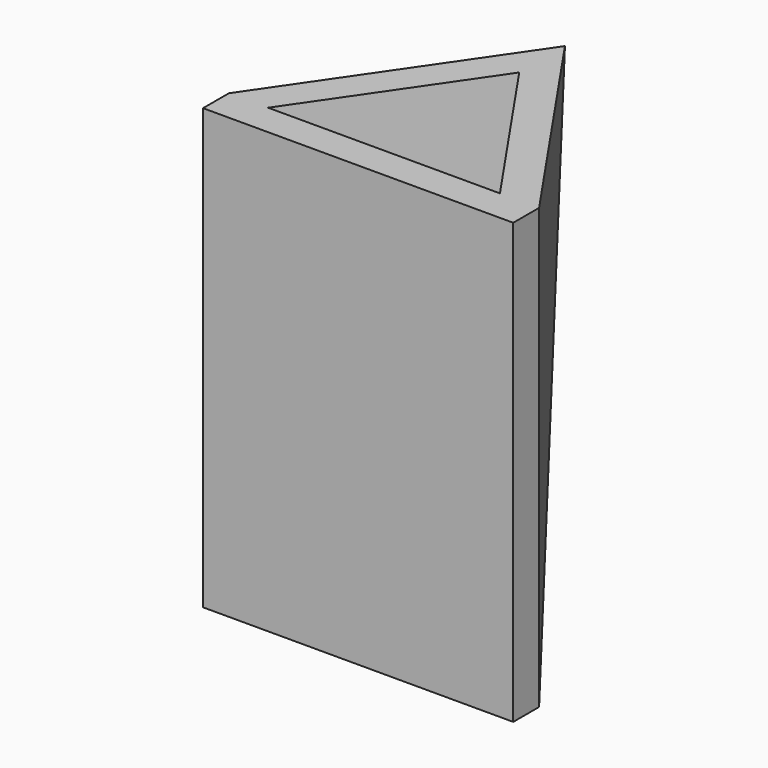
from build123d import *

# Parameters (mm, degrees)
F0_W      = 60.96
F0_H      = 86.36
F1_DEPTH  = 6.35
F1_FACE_W = 60.96
F1_FACE_H = 86.36
F6_DEPTH  = 86.361


with BuildPart() as f1:
    # F0 (on Front) → F1 (new body)
    with BuildSketch(Plane.XZ):
        Rectangle(F0_W, F0_H)
    extrude(amount=-F1_DEPTH)

    # F1_face (on face) → F4 section 0
    with BuildSketch(Plane(origin=(0, 6.35, 0), x_dir=(1, 0, 0), z_dir=(0, 1, 0)), mode=Mode.PRIVATE) as f4_s0:
        Rectangle(F1_FACE_W, F1_FACE_H)
    loft([f4_s0.sketch, Vertex(0, 50.8, 43.18)])

    # F5 (on face) → F6 (cut, through all)
    with BuildSketch(Plane.XY.offset(43.18)):
        Polygon((0, 39.571562), (-22.7805, 6.35), (22.7805, 6.35), align=None)
    extrude(amount=-F6_DEPTH, mode=Mode.SUBTRACT)


solid = f1.part
